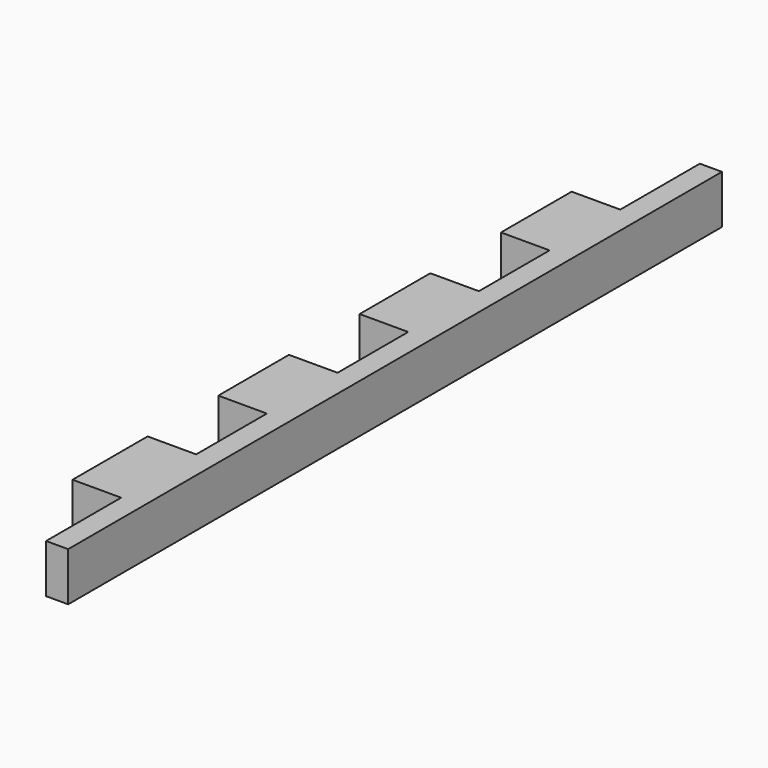
from build123d import *

# Parameters (mm, degrees)
F1_DEPTH = 6.985


with BuildPart() as f1:
    # F0 (on Top) → F1 (new body)
    with BuildSketch(Plane.XY):
        Polygon((10.16, 0), (6.985, 0), (6.985, -14.3002), (0, -14.3002), (0, -27.0002), (6.985, -27.0002), (6.985, -39.7002), (0, -39.7002), (0, -52.4002), (6.985, -52.4002), (6.985, -65.1002), (0, -65.1002), (0, -77.8002), (6.985, -77.8002), (6.985, -90.5002), (0, -90.5002), (0, -103.9876), (6.985, -103.9876), (6.985, -117.475), (10.16, -117.475), align=None)
    extrude(amount=F1_DEPTH)


solid = f1.part
